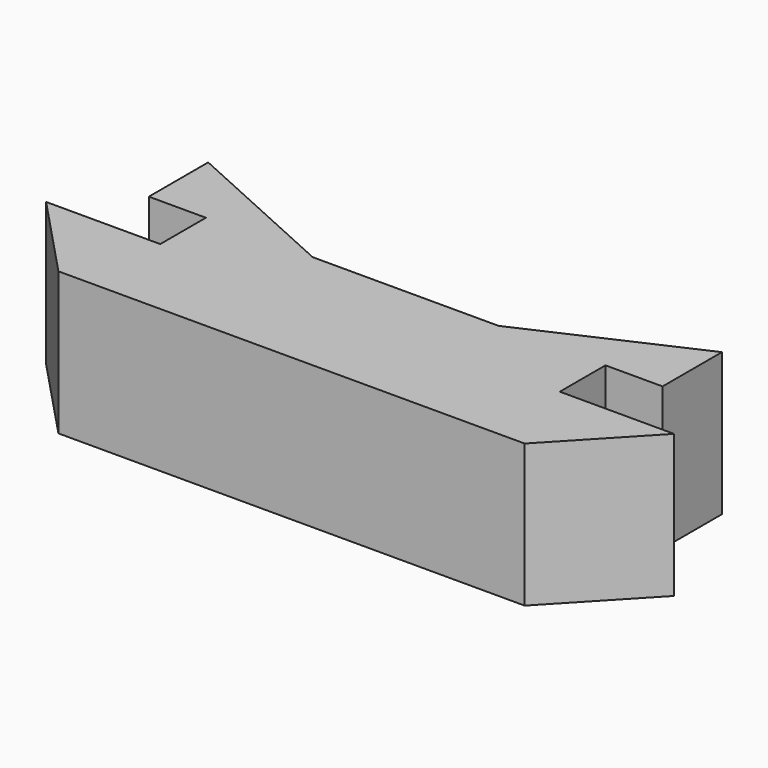
from build123d import *

# Parameters (mm, degrees)
PAD_DEPTH = 5


with BuildPart() as part:
    # Sketch → Pad (new body)
    with BuildSketch(Plane.XY):
        Polygon((9, 7.6), (9, 5), (7, 5), (7, 3), (11, 3), (8.167755, 0), (-8.167755, 0), (-11, 3), (-7, 3), (-7, 5), (-9, 5), (-9, 7.6), (-3.25959, 5), (3.25959, 5), align=None)
    extrude(amount=PAD_DEPTH)


solid = part.part
